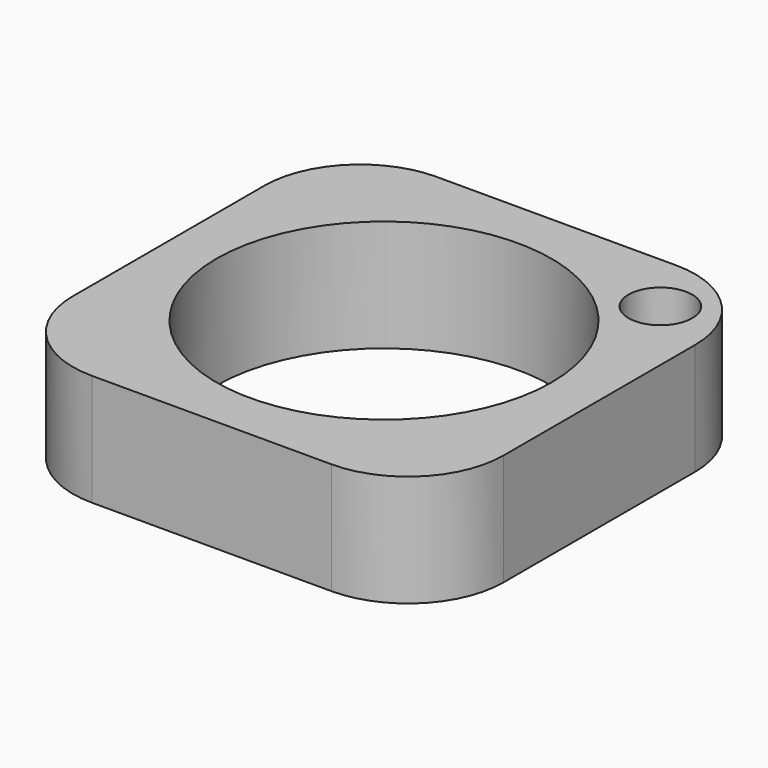
from build123d import *

# Parameters (mm, degrees)
F0_R     = 33.3375
F0_R_2   = 6.35
F1_DEPTH = 22.225


with BuildPart() as f1:
    # F0 (on Top) → F1 (new body)
    with BuildSketch(Plane.XY):
        with BuildLine():
            ThreePointArc((-42.8625, -23.8125), (-37.282884, -37.282884), (-23.8125, -42.8625))
            Line((-23.8125, -42.8625), (23.8125, -42.8625))
            ThreePointArc((23.8125, -42.8625), (37.282884, -37.282884), (42.8625, -23.8125))
            Line((42.8625, -23.8125), (42.8625, 23.8125))
            ThreePointArc((42.8625, 23.8125), (37.282884, 37.282884), (23.8125, 42.8625))
            Line((23.8125, 42.8625), (-23.8125, 42.8625))
            ThreePointArc((-23.8125, 42.8625), (-37.282884, 37.282884), (-42.8625, 23.8125))
            Line((-42.8625, 23.8125), (-42.8625, -23.8125))
        make_face()
        Circle(F0_R, mode=Mode.SUBTRACT)
        with Locations((30.547692, 30.547692)):
            Circle(F0_R_2, mode=Mode.SUBTRACT)
        with BuildLine():
            ThreePointArc((-42.8625, -23.8125), (-37.282884, -37.282884), (-23.8125, -42.8625))
            Line((-23.8125, -42.8625), (23.8125, -42.8625))
            ThreePointArc((23.8125, -42.8625), (37.282884, -37.282884), (42.8625, -23.8125))
            Line((42.8625, -23.8125), (42.8625, 23.8125))
            ThreePointArc((42.8625, 23.8125), (37.282884, 37.282884), (23.8125, 42.8625))
            Line((23.8125, 42.8625), (-23.8125, 42.8625))
            ThreePointArc((-23.8125, 42.8625), (-37.282884, 37.282884), (-42.8625, 23.8125))
            Line((-42.8625, 23.8125), (-42.8625, -23.8125))
        make_face()
        Circle(F0_R, mode=Mode.SUBTRACT)
        with Locations((30.547692, 30.547692)):
            Circle(F0_R_2, mode=Mode.SUBTRACT)
    extrude(amount=F1_DEPTH)


solid = f1.part
